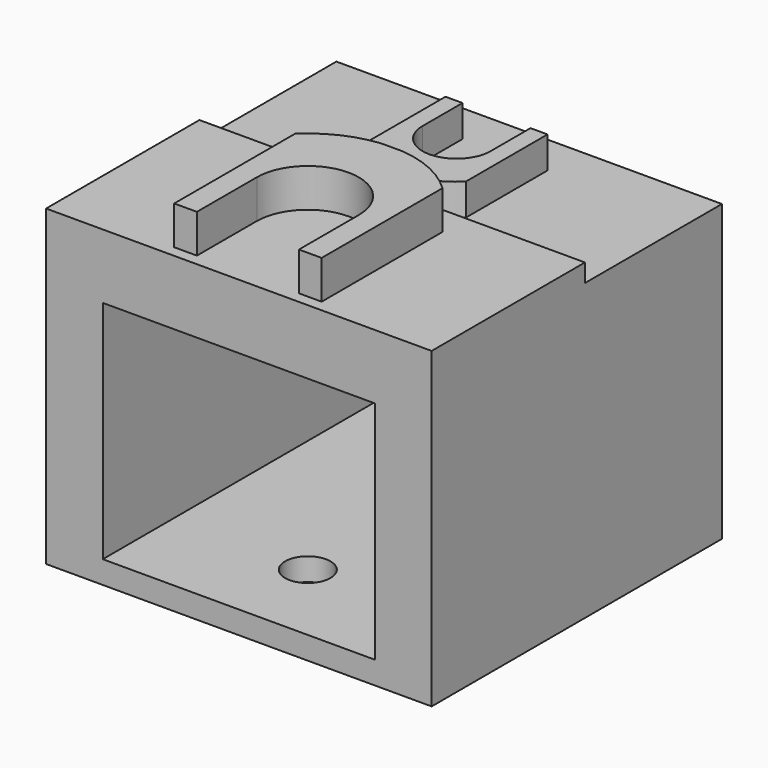
from build123d import *

# Parameters (mm, degrees)
F0_W      = 170
F0_H      = 138
F0_W_2    = 120
F0_H_2    = 99.5
F1_DEPTH  = 160
F2_W      = 170
F2_H      = 8
F3_DEPTH  = 75.5
F4_R      = 10
F5_DEPTH  = 25
F8_DEPTH  = 14
F10_DEPTH = 17


with BuildPart() as f1:
    # F0 (on Front) → F1 (new body)
    with BuildSketch(Plane.XZ):
        Rectangle(F0_W, F0_H)
        with Locations((0, -9.25)):
            Rectangle(F0_W_2, F0_H_2, mode=Mode.SUBTRACT)
    extrude(amount=-F1_DEPTH)

    # F2 (on face) → F3 (cut)
    with BuildSketch(Plane(origin=(0, 160, 0), x_dir=(-1, 0, 0), z_dir=(0, 1, 0))):
        with Locations((0, 65)):
            Rectangle(F2_W, F2_H)
    extrude(amount=-F3_DEPTH, mode=Mode.SUBTRACT)

    # F4 (on face) → F5 (cut)
    with BuildSketch(Plane(origin=(0, 0, -69), x_dir=(1, 0, 0), z_dir=(0, 0, -1))):
        with Locations((0, -120)):
            Circle(F4_R)
        with Locations((0, -38)):
            Circle(F4_R)
    extrude(amount=-F5_DEPTH, mode=Mode.SUBTRACT)


with BuildPart() as f8:
    # F7 (on face) → F8 (new body)
    with BuildSketch(Plane.XY.offset(61)):
        with BuildLine():
            Line((15, 142.000121), (15, 137.655348))
            Line((15, 137.655348), (15, 120))
            ThreePointArc((15, 120), (0, 105), (-15, 120))
            Line((-15, 120), (-15, 142.000121))
            Line((-15, 142.000121), (-22.5, 142.000121))
            Line((-22.5, 142.000121), (-22.5, 120))
            Line((-22.5, 120), (-22.5, 97))
            ThreePointArc((-22.5, 97), (0, 87.754121), (22.5, 97))
            Line((22.5, 97), (22.5, 120))
            Line((22.5, 120), (22.5, 142.000121))
            Line((22.5, 142.000121), (15, 142.000121))
        make_face()
    extrude(amount=F8_DEPTH)


with BuildPart() as f10:
    # F9 (on face) → F10 (new body)
    with BuildSketch(Plane.XY.offset(69)):
        with BuildLine():
            ThreePointArc((-22.5, 38), (0, 60.5), (22.5, 38))
            Line((22.5, 38), (22.5, 5))
            Line((22.5, 5), (32.5, 5))
            Line((32.5, 5), (32.5, 71.605245))
            ThreePointArc((32.5, 71.605245), (19.746372, 80.375031), (4.828302, 84.5))
            Line((4.828302, 84.5), (-4.828302, 84.5))
            ThreePointArc((-4.828302, 84.5), (-19.746372, 80.375031), (-32.5, 71.605245))
            Line((-32.5, 71.605245), (-32.5, 5))
            Line((-32.5, 5), (-22.5, 5))
            Line((-22.5, 5), (-22.5, 38))
        make_face()
    extrude(amount=F10_DEPTH)


solid = Compound([f1.part, f8.part, f10.part])
